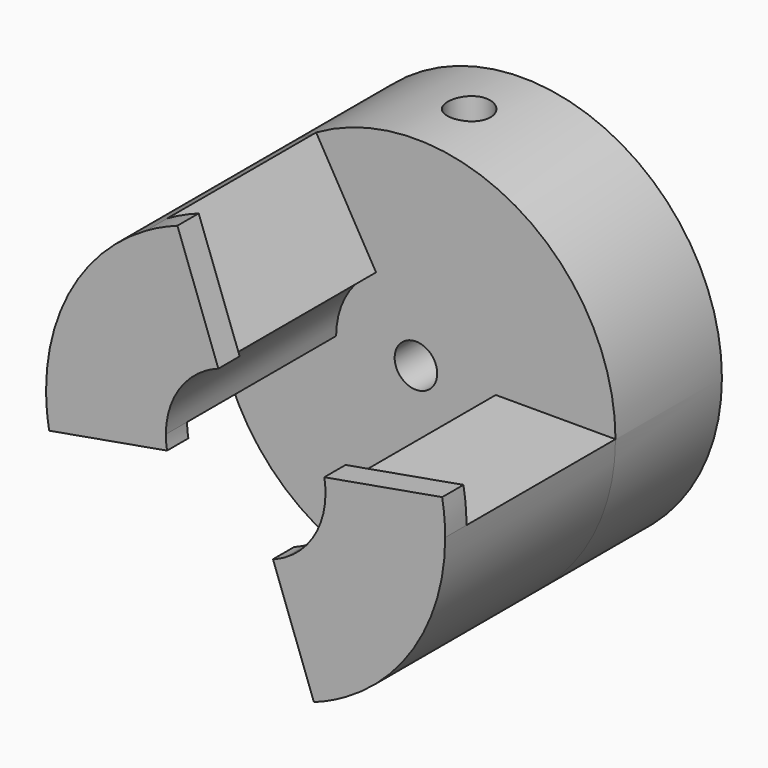
from build123d import *

# Parameters (mm, degrees)
F0_R     = 7.5
F1_DEPTH = 5
F3_DEPTH = 8
F4_R     = 0.8
F5_DEPTH = 13.001
F6_R     = 0.8
F7_DEPTH = 12.5
F9_DEPTH = 1


with BuildPart() as f1:
    # F0 (on Front) → F1 (new body)
    with BuildSketch(Plane.XZ):
        Circle(F0_R)
    extrude(amount=F1_DEPTH)

    # F2 (on face) → F3 (join)
    with BuildSketch(Plane.XZ.offset(5)):
        with BuildLine():
            ThreePointArc((-2.9991336175, 0.0047529666), (-2.5960245368, 1.5020576249), (-1.4991373826, 2.5980762114))
            Line((-1.4991373826, 2.5980762114), (-3.7493530184, 6.4955640204))
            ThreePointArc((-3.7493530184, 6.4955640204), (-6.4938150879, 3.7523813244), (-7.499998494, 0.0047529666))
            Line((-7.499998494, 0.0047529666), (-2.9991336175, 0.0047529666))
        make_face()
        with BuildLine():
            ThreePointArc((3.0008588523, 0.0047529666), (2.6001262556, -1.4979414338), (1.5008626174, -2.5980762114))
            Line((1.5008626174, -2.5980762114), (3.7506469444, -6.4948169719))
            ThreePointArc((3.7506469444, -6.4948169719), (6.4965650956, -3.7476181714), (7.499998494, 0.0047529666))
            Line((7.499998494, 0.0047529666), (3.0008588523, 0.0047529666))
        make_face()
    extrude(amount=F3_DEPTH)

    # F4 (on face) → F5 (cut, through all)
    with BuildSketch(Plane(origin=(0, 0, 0), x_dir=(-1, 0, 0), z_dir=(0, 1, 0))):
        Circle(F4_R)
    extrude(amount=-F5_DEPTH, mode=Mode.SUBTRACT)

    # F6 (on Top) → F7 (cut, symmetric)
    with BuildSketch(Plane.XY):
        with Locations((0, -2.5)):
            Circle(F6_R)
    extrude(amount=F7_DEPTH, both=True, mode=Mode.SUBTRACT)

    # F8 (on face) → F9 (join)
    with BuildSketch(Plane.XZ.offset(13)):
        with BuildLine():
            ThreePointArc((2.9552858764, 0.520944533), (2.5989388287, -1.5), (1.0269230474, -2.8190778624))
            Line((1.0269230474, -2.8190778624), (2.5659127703, -7.0474173748))
            ThreePointArc((2.5659127703, -7.0474173748), (6.4953557229, -3.7497138602), (7.3860841572, 1.302213816))
            Line((7.3860841572, 1.302213816), (2.9552858764, 0.520944533))
        make_face()
        with BuildLine():
            Line((-7.386032135, -1.3025088485), (-2.9535606416, -0.520944533))
            ThreePointArc((-2.9535606416, -0.520944533), (-2.597213594, 1.5), (-1.0251978126, 2.8190778624))
            Line((-1.0251978126, 2.8190778624), (-2.5643893496, 7.0479718546))
            ThreePointArc((-2.5643893496, 7.0479718546), (-6.4950253213, 3.7502861326), (-7.386032135, -1.3025088485))
        make_face()
    extrude(amount=-F9_DEPTH)


solid = f1.part
